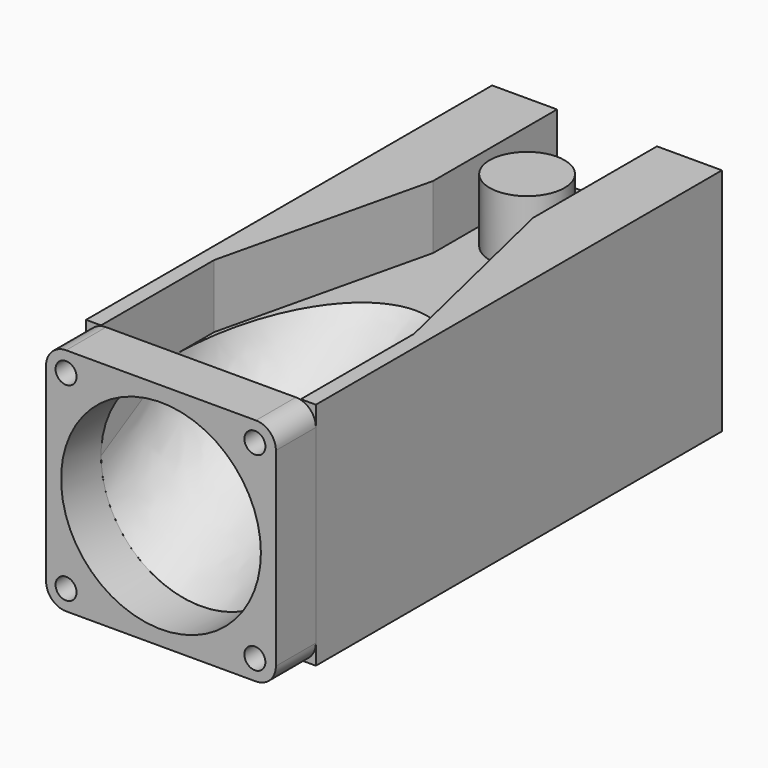
from build123d import *

# Parameters (mm, degrees)
F0_W      = 46
F0_H      = 46
F1_DEPTH  = 101.6
F5_W      = 40
F5_H      = 101.6
F6_DEPTH  = 12.7
F7_W      = 46
F7_H      = 46
F7_R      = 2.1
F7_R_2    = 20
F8_DEPTH  = 10
F9_R      = 4
F10_R     = 7.5
F11_DEPTH = 12.7
F13_DEPTH = 12.7


with BuildPart() as f1:
    # F0 (on Front) → F1 (new body)
    with BuildSketch(Plane.XZ):
        Rectangle(F0_W, F0_H)
    extrude(amount=-F1_DEPTH)

    # F4: sweep along a path in F3
    with BuildLine(Plane.YZ) as f4_path:
        Line((0, -20), (76.2, 23))
    # F2 (on face) → F4 (sweep, cut)
    with BuildSketch(Plane.XZ):
        with BuildLine():
            Line((-20, 23), (-20, 0))
            ThreePointArc((-20, 0), (0, -20), (20, 0))
            Line((20, 0), (20, 23))
            Line((20, 23), (-20, 23))
        make_face()
    sweep(path=f4_path.line, mode=Mode.SUBTRACT)

    # F5 (on face) → F6 (cut)
    with BuildSketch(Plane.XY.offset(23)):
        with Locations((0, 50.8)):
            Rectangle(F5_W, F5_H)
    extrude(amount=-F6_DEPTH, mode=Mode.SUBTRACT)

    # F12 (on face) → F13 (join)
    with BuildSketch(Plane.XY.offset(10.3)):
        Polygon((-20, 101.6), (-20, 28.322322), (-10, 70.58686), (-10, 101.6), align=None)
        Polygon((10, 70.58686), (20, 28.322322), (20, 101.6), (10, 101.6), align=None)
    extrude(amount=F13_DEPTH)


with BuildPart() as f8:
    # F7 (on face) → F8 (new body)
    with BuildSketch(Plane.XZ):
        Rectangle(F7_W, F7_H)
        with Locations((-19, -19)):
            Circle(F7_R, mode=Mode.SUBTRACT)
        with Locations((18.8, -19)):
            Circle(F7_R, mode=Mode.SUBTRACT)
        with Locations((-19, 19)):
            Circle(F7_R, mode=Mode.SUBTRACT)
        Circle(F7_R_2, mode=Mode.SUBTRACT)
        with Locations((18.8, 19)):
            Circle(F7_R, mode=Mode.SUBTRACT)
    extrude(amount=F8_DEPTH)

    # F9
    f9_edges = [f8.edges().sort_by_distance(p)[0] for p in [
        (23, -5, 23),
        (-23, -5, 23),
        (-23, -5, -23),
        (23, -5, -23),
    ]]
    fillet(f9_edges, radius=F9_R)


with BuildPart() as f11:
    # F10 (on face) → F11 (new body)
    with BuildSketch(Plane.XY.offset(10.3)):
        with Locations((0, 81.6)):
            Circle(F10_R)
    extrude(amount=F11_DEPTH)


solid = Compound([f1.part, f8.part, f11.part])
